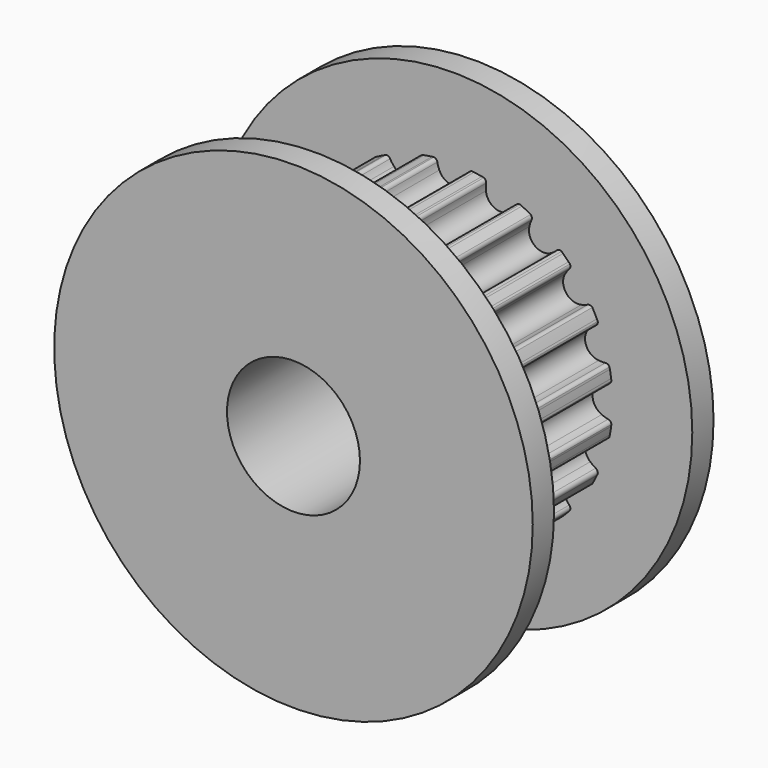
from build123d import *

# Parameters (mm, degrees)
F1_DEPTH = 3.25
F2_R     = 9
F3_DEPTH = 1
F5_R     = 2.5
F6_DEPTH = 8.501


with BuildPart() as f1:
    # F0 (on Front) → F1 (new body, symmetric)
    with BuildSketch(Plane.XZ):
        with BuildLine():
            ThreePointArc((-0.5137469529, -5.5950260293), (0, -5.25), (0.5137469529, -5.5950260293))
            ThreePointArc((0.5137469529, -5.5950260293), (0.5592692601, -5.7125893356), (0.5896381917, -5.8349459432))
            ThreePointArc((0.5896381917, -5.8349459432), (0.634011817, -5.9169199806), (0.718236871, -5.9568562008))
            ThreePointArc((0.718236871, -5.9568562008), (0.7555100891, -5.952243653), (0.7927537045, -5.9473978818))
            ThreePointArc((0.7927537045, -5.9473978818), (0.9386067902, -5.9261300436), (1.0838934413, -5.9012858775))
            ThreePointArc((1.0838934413, -5.9012858775), (1.1208116501, -5.8943855698), (1.1576859427, -5.8872543055))
            ThreePointArc((1.1576859427, -5.8872543055), (1.2254477584, -5.82324573), (1.2423182132, -5.7315715833))
            ThreePointArc((1.2423182132, -5.7315715833), (1.2333905124, -5.6058190183), (1.2403557397, -5.4799425032))
            ThreePointArc((1.2403557397, -5.4799425032), (1.6223392205, -4.9930467105), (2.2175605143, -5.1624294247))
            ThreePointArc((2.2175605143, -5.1624294247), (2.2971838607, -5.2601716067), (2.3638767022, -5.3671551397))
            ThreePointArc((2.3638767022, -5.3671551397), (2.4314098983, -5.4314048778), (2.5238536555, -5.4433595073))
            ThreePointArc((2.5238536555, -5.4433595073), (2.5578772368, -5.4274546558), (2.5918005942, -5.4113371434))
            ThreePointArc((2.5918005942, -5.4113371434), (2.7239429984, -5.3460391451), (2.8544415451, -5.2775148949))
            ThreePointArc((2.8544415451, -5.2775148949), (2.8874205358, -5.2595439583), (2.9202863902, -5.2413669399))
            ThreePointArc((2.9202863902, -5.2413669399), (2.964951969, -5.1595516144), (2.9526678557, -5.0671510626))
            ThreePointArc((2.9526678557, -5.0671510626), (2.905317428, -4.9503120775), (2.8730437705, -4.828444024))
            ThreePointArc((2.8730437705, -4.828444024), (3.0858725745, -4.2473392205), (3.7043038019, -4.2244982593))
            ThreePointArc((3.7043038019, -4.2244982593), (3.8102340997, -4.2928516312), (3.906722491, -4.373989796))
            ThreePointArc((3.906722491, -4.373989796), (3.9908046381, -4.4142260228), (4.0824180595, -4.3970288591))
            ThreePointArc((4.0824180595, -4.3970288591), (4.1098615388, -4.3713885816), (4.1371439837, -4.3455770225))
            ThreePointArc((4.1371439837, -4.3455770225), (4.2426406871, -4.2426406871), (4.3455770225, -4.1371439837))
            ThreePointArc((4.3455770225, -4.1371439837), (4.3713885816, -4.1098615388), (4.3970288591, -4.0824180595))
            ThreePointArc((4.3970288591, -4.0824180595), (4.4142260228, -3.9908046381), (4.373989796, -3.906722491))
            ThreePointArc((4.373989796, -3.906722491), (4.2928516312, -3.8102340997), (4.2244982593, -3.7043038019))
            ThreePointArc((4.2244982593, -3.7043038019), (4.2473392205, -3.0858725745), (4.828444024, -2.8730437705))
            ThreePointArc((4.828444024, -2.8730437705), (4.9503120775, -2.905317428), (5.0671510626, -2.9526678557))
            ThreePointArc((5.0671510626, -2.9526678557), (5.1595516144, -2.964951969), (5.2413669399, -2.9202863902))
            ThreePointArc((5.2413669399, -2.9202863902), (5.2595439583, -2.8874205358), (5.2775148949, -2.8544415451))
            ThreePointArc((5.2775148949, -2.8544415451), (5.3460391451, -2.7239429984), (5.4113371434, -2.5918005942))
            ThreePointArc((5.4113371434, -2.5918005942), (5.4432427829, -2.4673716464), (5.3671551397, -2.3638767022))
            ThreePointArc((5.3671551397, -2.3638767022), (5.2601716067, -2.2971838607), (5.1624294247, -2.2175605143))
            ThreePointArc((5.1624294247, -2.2175605143), (4.9930467105, -1.6223392205), (5.4799425032, -1.2403557397))
            ThreePointArc((5.4799425032, -1.2403557397), (5.6058190183, -1.2333905124), (5.7315715833, -1.2423182132))
            ThreePointArc((5.7315715833, -1.2423182132), (5.82324573, -1.2254477584), (5.8872543055, -1.1576859427))
            ThreePointArc((5.8872543055, -1.1576859427), (5.8943855698, -1.1208116501), (5.9012858775, -1.0838934413))
            ThreePointArc((5.9012858775, -1.0838934413), (5.9261300436, -0.9386067902), (5.9473978818, -0.7927537045))
            ThreePointArc((5.9473978818, -0.7927537045), (5.952243653, -0.7555100891), (5.9568562008, -0.718236871))
            ThreePointArc((5.9568562008, -0.718236871), (5.9169199806, -0.634011817), (5.8349459432, -0.5896381917))
            ThreePointArc((5.8349459432, -0.5896381917), (5.7125893356, -0.5592692601), (5.5950260293, -0.5137469529))
            ThreePointArc((5.5950260293, -0.5137469529), (5.25, 0), (5.5950260293, 0.5137469529))
            ThreePointArc((5.5950260293, 0.5137469529), (5.7125893356, 0.5592692601), (5.8349459432, 0.5896381917))
            ThreePointArc((5.8349459432, 0.5896381917), (5.9169199806, 0.634011817), (5.9568562008, 0.718236871))
            ThreePointArc((5.9568562008, 0.718236871), (5.952243653, 0.7555100891), (5.9473978818, 0.7927537045))
            ThreePointArc((5.9473978818, 0.7927537045), (5.9261300436, 0.9386067902), (5.9012858775, 1.0838934413))
            ThreePointArc((5.9012858775, 1.0838934413), (5.8943855698, 1.1208116501), (5.8872543055, 1.1576859427))
            ThreePointArc((5.8872543055, 1.1576859427), (5.82324573, 1.2254477584), (5.7315715833, 1.2423182132))
            ThreePointArc((5.7315715833, 1.2423182132), (5.6058190183, 1.2333905124), (5.4799425032, 1.2403557397))
            ThreePointArc((5.4799425032, 1.2403557397), (4.9930467105, 1.6223392205), (5.1624294247, 2.2175605143))
            ThreePointArc((5.1624294247, 2.2175605143), (5.2601716067, 2.2971838607), (5.3671551397, 2.3638767022))
            ThreePointArc((5.3671551397, 2.3638767022), (5.4314048778, 2.4314098983), (5.4433595073, 2.5238536555))
            ThreePointArc((5.4433595073, 2.5238536555), (5.4274546558, 2.5578772368), (5.4113371434, 2.5918005942))
            ThreePointArc((5.4113371434, 2.5918005942), (5.3460391451, 2.7239429984), (5.2775148949, 2.8544415451))
            ThreePointArc((5.2775148949, 2.8544415451), (5.2595439583, 2.8874205358), (5.2413669399, 2.9202863902))
            ThreePointArc((5.2413669399, 2.9202863902), (5.1595516144, 2.964951969), (5.0671510626, 2.9526678557))
            ThreePointArc((5.0671510626, 2.9526678557), (4.9503120775, 2.905317428), (4.828444024, 2.8730437705))
            ThreePointArc((4.828444024, 2.8730437705), (4.2473392205, 3.0858725745), (4.2244982593, 3.7043038019))
            ThreePointArc((4.2244982593, 3.7043038019), (4.2928516312, 3.8102340997), (4.373989796, 3.906722491))
            ThreePointArc((4.373989796, 3.906722491), (4.4142260228, 3.9908046381), (4.3970288591, 4.0824180595))
            ThreePointArc((4.3970288591, 4.0824180595), (4.3713885816, 4.1098615388), (4.3455770225, 4.1371439837))
            ThreePointArc((4.3455770225, 4.1371439837), (4.2426406871, 4.2426406871), (4.1371439837, 4.3455770225))
            ThreePointArc((4.1371439837, 4.3455770225), (4.1098615388, 4.3713885816), (4.0824180595, 4.3970288591))
            ThreePointArc((4.0824180595, 4.3970288591), (3.9908046381, 4.4142260228), (3.906722491, 4.373989796))
            ThreePointArc((3.906722491, 4.373989796), (3.8102340997, 4.2928516312), (3.7043038019, 4.2244982593))
            ThreePointArc((3.7043038019, 4.2244982593), (3.0858725745, 4.2473392205), (2.8730437705, 4.828444024))
            ThreePointArc((2.8730437705, 4.828444024), (2.905317428, 4.9503120775), (2.9526678557, 5.0671510626))
            ThreePointArc((2.9526678557, 5.0671510626), (2.964951969, 5.1595516144), (2.9202863902, 5.2413669399))
            ThreePointArc((2.9202863902, 5.2413669399), (2.8874205358, 5.2595439583), (2.8544415451, 5.2775148949))
            ThreePointArc((2.8544415451, 5.2775148949), (2.7239429984, 5.3460391451), (2.5918005942, 5.4113371434))
            ThreePointArc((2.5918005942, 5.4113371434), (2.5578772368, 5.4274546558), (2.5238536555, 5.4433595073))
            ThreePointArc((2.5238536555, 5.4433595073), (2.4314098983, 5.4314048778), (2.3638767022, 5.3671551397))
            ThreePointArc((2.3638767022, 5.3671551397), (2.2971838607, 5.2601716067), (2.2175605143, 5.1624294247))
            ThreePointArc((2.2175605143, 5.1624294247), (1.6223392205, 4.9930467105), (1.2403557397, 5.4799425032))
            ThreePointArc((1.2403557397, 5.4799425032), (1.2333905124, 5.6058190183), (1.2423182132, 5.7315715833))
            ThreePointArc((1.2423182132, 5.7315715833), (1.2254477584, 5.82324573), (1.1576859427, 5.8872543055))
            ThreePointArc((1.1576859427, 5.8872543055), (1.1208116501, 5.8943855698), (1.0838934413, 5.9012858775))
            ThreePointArc((1.0838934413, 5.9012858775), (0.9386067902, 5.9261300436), (0.7927537045, 5.9473978818))
            ThreePointArc((0.7927537045, 5.9473978818), (0.7555100891, 5.952243653), (0.718236871, 5.9568562008))
            ThreePointArc((0.718236871, 5.9568562008), (0.634011817, 5.9169199806), (0.5896381917, 5.8349459432))
            ThreePointArc((0.5896381917, 5.8349459432), (0.5592692601, 5.7125893356), (0.5137469529, 5.5950260293))
            ThreePointArc((0.5137469529, 5.5950260293), (0, 5.25), (-0.5137469529, 5.5950260293))
            ThreePointArc((-0.5137469529, 5.5950260293), (-0.5592692601, 5.7125893356), (-0.5896381917, 5.8349459432))
            ThreePointArc((-0.5896381917, 5.8349459432), (-0.634011817, 5.9169199806), (-0.718236871, 5.9568562008))
            ThreePointArc((-0.718236871, 5.9568562008), (-0.7555100891, 5.952243653), (-0.7927537045, 5.9473978818))
            ThreePointArc((-0.7927537045, 5.9473978818), (-0.9386067902, 5.9261300436), (-1.0838934413, 5.9012858775))
            ThreePointArc((-1.0838934413, 5.9012858775), (-1.1208116501, 5.8943855698), (-1.1576859427, 5.8872543055))
            ThreePointArc((-1.1576859427, 5.8872543055), (-1.2254477584, 5.82324573), (-1.2423182132, 5.7315715833))
            ThreePointArc((-1.2423182132, 5.7315715833), (-1.2333905124, 5.6058190183), (-1.2403557397, 5.4799425032))
            ThreePointArc((-1.2403557397, 5.4799425032), (-1.6223392205, 4.9930467105), (-2.2175605143, 5.1624294247))
            ThreePointArc((-2.2175605143, 5.1624294247), (-2.2971838607, 5.2601716067), (-2.3638767022, 5.3671551397))
            ThreePointArc((-2.3638767022, 5.3671551397), (-2.4314098983, 5.4314048778), (-2.5238536555, 5.4433595073))
            ThreePointArc((-2.5238536555, 5.4433595073), (-2.5578772368, 5.4274546558), (-2.5918005942, 5.4113371434))
            ThreePointArc((-2.5918005942, 5.4113371434), (-2.7239429984, 5.3460391451), (-2.8544415451, 5.2775148949))
            ThreePointArc((-2.8544415451, 5.2775148949), (-2.8874205358, 5.2595439583), (-2.9202863902, 5.2413669399))
            ThreePointArc((-2.9202863902, 5.2413669399), (-2.964951969, 5.1595516144), (-2.9526678557, 5.0671510626))
            ThreePointArc((-2.9526678557, 5.0671510626), (-2.905317428, 4.9503120775), (-2.8730437705, 4.828444024))
            ThreePointArc((-2.8730437705, 4.828444024), (-3.0858725745, 4.2473392205), (-3.7043038019, 4.2244982593))
            ThreePointArc((-3.7043038019, 4.2244982593), (-3.8102340997, 4.2928516312), (-3.906722491, 4.373989796))
            ThreePointArc((-3.906722491, 4.373989796), (-3.9908046381, 4.4142260228), (-4.0824180595, 4.3970288591))
            ThreePointArc((-4.0824180595, 4.3970288591), (-4.1098615388, 4.3713885816), (-4.1371439837, 4.3455770225))
            ThreePointArc((-4.1371439837, 4.3455770225), (-4.2426406871, 4.2426406871), (-4.3455770225, 4.1371439837))
            ThreePointArc((-4.3455770225, 4.1371439837), (-4.3713885816, 4.1098615388), (-4.3970288591, 4.0824180595))
            ThreePointArc((-4.3970288591, 4.0824180595), (-4.4142260228, 3.9908046381), (-4.373989796, 3.906722491))
            ThreePointArc((-4.373989796, 3.906722491), (-4.2928516312, 3.8102340997), (-4.2244982593, 3.7043038019))
            ThreePointArc((-4.2244982593, 3.7043038019), (-4.2473392205, 3.0858725745), (-4.828444024, 2.8730437705))
            ThreePointArc((-4.828444024, 2.8730437705), (-4.9503120775, 2.905317428), (-5.0671510626, 2.9526678557))
            ThreePointArc((-5.0671510626, 2.9526678557), (-5.1595516144, 2.964951969), (-5.2413669399, 2.9202863902))
            ThreePointArc((-5.2413669399, 2.9202863902), (-5.2595439583, 2.8874205358), (-5.2775148949, 2.8544415451))
            ThreePointArc((-5.2775148949, 2.8544415451), (-5.3460391451, 2.7239429984), (-5.4113371434, 2.5918005942))
            ThreePointArc((-5.4113371434, 2.5918005942), (-5.4274546558, 2.5578772368), (-5.4433595073, 2.5238536555))
            ThreePointArc((-5.4433595073, 2.5238536555), (-5.4314048778, 2.4314098983), (-5.3671551397, 2.3638767022))
            ThreePointArc((-5.3671551397, 2.3638767022), (-5.2601716067, 2.2971838607), (-5.1624294247, 2.2175605143))
            ThreePointArc((-5.1624294247, 2.2175605143), (-4.9930467105, 1.6223392205), (-5.4799425032, 1.2403557397))
            ThreePointArc((-5.4799425032, 1.2403557397), (-5.6058190183, 1.2333905124), (-5.7315715833, 1.2423182132))
            ThreePointArc((-5.7315715833, 1.2423182132), (-5.82324573, 1.2254477584), (-5.8872543055, 1.1576859427))
            ThreePointArc((-5.8872543055, 1.1576859427), (-5.8943855698, 1.1208116501), (-5.9012858775, 1.0838934413))
            ThreePointArc((-5.9012858775, 1.0838934413), (-5.9261300436, 0.9386067902), (-5.9473978818, 0.7927537045))
            ThreePointArc((-5.9473978818, 0.7927537045), (-5.952243653, 0.7555100891), (-5.9568562008, 0.718236871))
            ThreePointArc((-5.9568562008, 0.718236871), (-5.9169199806, 0.634011817), (-5.8349459432, 0.5896381917))
            ThreePointArc((-5.8349459432, 0.5896381917), (-5.7125893356, 0.5592692601), (-5.5950260293, 0.5137469529))
            ThreePointArc((-5.5950260293, 0.5137469529), (-5.25, 0), (-5.5950260293, -0.5137469529))
            ThreePointArc((-5.5950260293, -0.5137469529), (-5.7125893356, -0.5592692601), (-5.8349459432, -0.5896381917))
            ThreePointArc((-5.8349459432, -0.5896381917), (-5.9169199806, -0.634011817), (-5.9568562008, -0.718236871))
            ThreePointArc((-5.9568562008, -0.718236871), (-5.952243653, -0.7555100891), (-5.9473978818, -0.7927537045))
            ThreePointArc((-5.9473978818, -0.7927537045), (-5.9261300436, -0.9386067902), (-5.9012858775, -1.0838934413))
            ThreePointArc((-5.9012858775, -1.0838934413), (-5.8943855698, -1.1208116501), (-5.8872543055, -1.1576859427))
            ThreePointArc((-5.8872543055, -1.1576859427), (-5.82324573, -1.2254477584), (-5.7315715833, -1.2423182132))
            ThreePointArc((-5.7315715833, -1.2423182132), (-5.6058190183, -1.2333905124), (-5.4799425032, -1.2403557397))
            ThreePointArc((-5.4799425032, -1.2403557397), (-4.9930467105, -1.6223392205), (-5.1624294247, -2.2175605143))
            ThreePointArc((-5.1624294247, -2.2175605143), (-5.2601716067, -2.2971838607), (-5.3671551397, -2.3638767022))
            ThreePointArc((-5.3671551397, -2.3638767022), (-5.4314048778, -2.4314098983), (-5.4433595073, -2.5238536555))
            ThreePointArc((-5.4433595073, -2.5238536555), (-5.4274546558, -2.5578772368), (-5.4113371434, -2.5918005942))
            ThreePointArc((-5.4113371434, -2.5918005942), (-5.3460391451, -2.7239429984), (-5.2775148949, -2.8544415451))
            ThreePointArc((-5.2775148949, -2.8544415451), (-5.2595439583, -2.8874205358), (-5.2413669399, -2.9202863902))
            ThreePointArc((-5.2413669399, -2.9202863902), (-5.1595516144, -2.964951969), (-5.0671510626, -2.9526678557))
            ThreePointArc((-5.0671510626, -2.9526678557), (-4.9503120775, -2.905317428), (-4.828444024, -2.8730437705))
            ThreePointArc((-4.828444024, -2.8730437705), (-4.2473392205, -3.0858725745), (-4.2244982593, -3.7043038019))
            ThreePointArc((-4.2244982593, -3.7043038019), (-4.2928516312, -3.8102340997), (-4.373989796, -3.906722491))
            ThreePointArc((-4.373989796, -3.906722491), (-4.4142260228, -3.9908046381), (-4.3970288591, -4.0824180595))
            ThreePointArc((-4.3970288591, -4.0824180595), (-4.3713885816, -4.1098615388), (-4.3455770225, -4.1371439837))
            ThreePointArc((-4.3455770225, -4.1371439837), (-4.2426406871, -4.2426406871), (-4.1371439837, -4.3455770225))
            ThreePointArc((-4.1371439837, -4.3455770225), (-4.1098615388, -4.3713885816), (-4.0824180595, -4.3970288591))
            ThreePointArc((-4.0824180595, -4.3970288591), (-3.9908046381, -4.4142260228), (-3.906722491, -4.373989796))
            ThreePointArc((-3.906722491, -4.373989796), (-3.8102340997, -4.2928516312), (-3.7043038019, -4.2244982593))
            ThreePointArc((-3.7043038019, -4.2244982593), (-3.0858725745, -4.2473392205), (-2.8730437705, -4.828444024))
            ThreePointArc((-2.8730437705, -4.828444024), (-2.905317428, -4.9503120775), (-2.9526678557, -5.0671510626))
            ThreePointArc((-2.9526678557, -5.0671510626), (-2.964951969, -5.1595516144), (-2.9202863902, -5.2413669399))
            ThreePointArc((-2.9202863902, -5.2413669399), (-2.8874205358, -5.2595439583), (-2.8544415451, -5.2775148949))
            ThreePointArc((-2.8544415451, -5.2775148949), (-2.7239429984, -5.3460391451), (-2.5918005942, -5.4113371434))
            ThreePointArc((-2.5918005942, -5.4113371434), (-2.5578772368, -5.4274546558), (-2.5238536555, -5.4433595073))
            ThreePointArc((-2.5238536555, -5.4433595073), (-2.4314098983, -5.4314048778), (-2.3638767022, -5.3671551397))
            ThreePointArc((-2.3638767022, -5.3671551397), (-2.2971838607, -5.2601716067), (-2.2175605143, -5.1624294247))
            ThreePointArc((-2.2175605143, -5.1624294247), (-1.6223392205, -4.9930467105), (-1.2403557397, -5.4799425032))
            ThreePointArc((-1.2403557397, -5.4799425032), (-1.2333905124, -5.6058190183), (-1.2423182132, -5.7315715833))
            ThreePointArc((-1.2423182132, -5.7315715833), (-1.2254477584, -5.82324573), (-1.1576859427, -5.8872543055))
            ThreePointArc((-1.1576859427, -5.8872543055), (-1.1208116501, -5.8943855698), (-1.0838934413, -5.9012858775))
            ThreePointArc((-1.0838934413, -5.9012858775), (-0.9386067902, -5.9261300436), (-0.7927537045, -5.9473978818))
            ThreePointArc((-0.7927537045, -5.9473978818), (-0.7555100891, -5.952243653), (-0.718236871, -5.9568562008))
            ThreePointArc((-0.718236871, -5.9568562008), (-0.634011817, -5.9169199806), (-0.5896381917, -5.8349459432))
            ThreePointArc((-0.5896381917, -5.8349459432), (-0.5592692601, -5.7125893356), (-0.5137469529, -5.5950260293))
        make_face()
    extrude(amount=F1_DEPTH, both=True)

    # F2 (on face) → F3 (join)
    with BuildSketch(Plane.XZ.offset(3.25)):
        Circle(F2_R)
    extrude(amount=F3_DEPTH)

    # F4: F1 across plane


with BuildPart() as f1_1:
    add(f1.part)
    add(f1.part.mirror(Plane.XZ))

    # F5 (on face) → F6 (cut, through all)
    with BuildSketch(Plane.XZ.offset(4.25)):
        Circle(F5_R)
    extrude(amount=-F6_DEPTH, mode=Mode.SUBTRACT)


solid = f1_1.part
